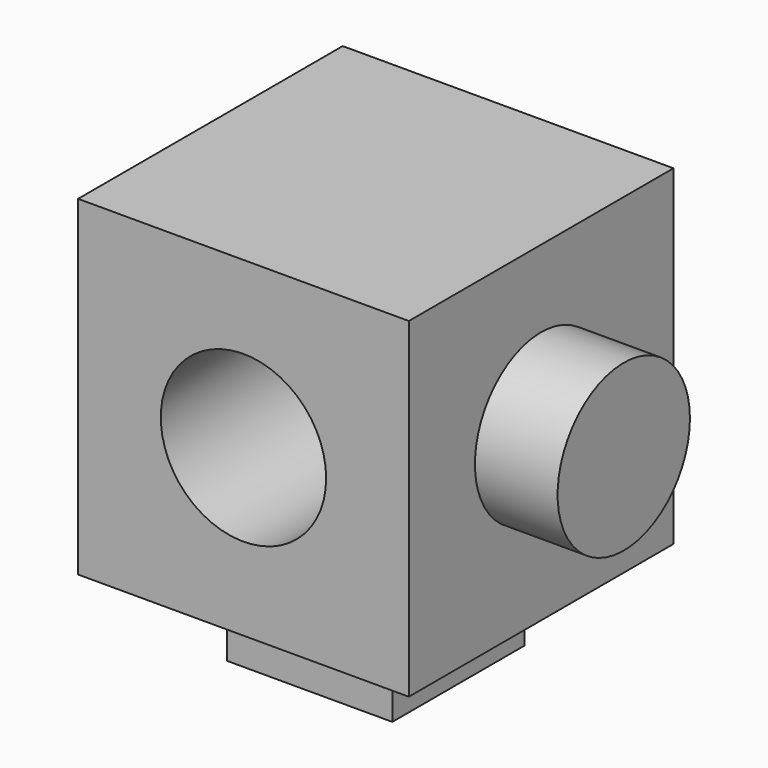
from build123d import *

# Parameters (mm, degrees)
F0_W     = 50.8
F0_H     = 50.8
F1_DEPTH = 50.8
F2_R     = 12.7
F3_DEPTH = 50.8
F4_R     = 12.7
F5_DEPTH = 12.7
F7_W     = 25.4
F7_H     = 25.4
F8_DEPTH = 12.7


with BuildPart() as f1:
    # F0 (on Front) → F1 (new body)
    with BuildSketch(Plane.XZ):
        with Locations((-25.4, 25.4)):
            Rectangle(F0_W, F0_H)
    extrude(amount=F1_DEPTH)

    # F2 (on face) → F3 (cut)
    with BuildSketch(Plane.XZ.offset(50.8)):
        with Locations((-25.4, 25.4)):
            Circle(F2_R)
    extrude(amount=-F3_DEPTH, mode=Mode.SUBTRACT)

    # F4 (on Right) → F5 (join)
    with BuildSketch(Plane.YZ):
        with Locations((-25.414905, 26.270023)):
            Circle(F4_R)
    extrude(amount=F5_DEPTH)

    # F7 (on face) → F8 (join)
    with BuildSketch(Plane(origin=(0, 0, 0), x_dir=(1, 0, 0), z_dir=(0, 0, -1))):
        with Locations((-25.4, 25.4)):
            Rectangle(F7_W, F7_H)
    extrude(amount=F8_DEPTH)


solid = f1.part
